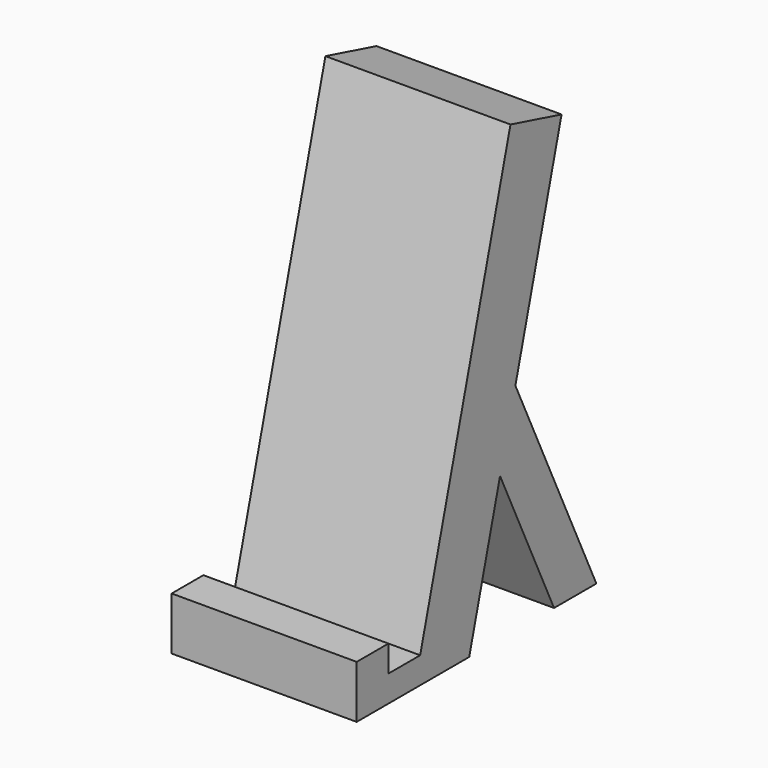
from build123d import *

# Parameters (mm, degrees)
F0_W     = 63.5
F0_H     = 25.4
F1_DEPTH = 19.05
F2_W     = 19.05
F2_H     = 12.7
F3_DEPTH = 63.5
F4_DEPTH = 25.4
F6_DEPTH = 88.9


with BuildPart() as f1:
    # F0 (on Front) → F1 (new body)
    with BuildSketch(Plane.XZ):
        with Locations((-31.75, 12.7)):
            Rectangle(F0_W, F0_H)
    extrude(amount=F1_DEPTH)

    # F2 (on Right) → F3 (join)
    with BuildSketch(Plane.YZ):
        with Locations((9.525, 6.35)):
            Rectangle(F2_W, F2_H)
        Polygon((19.05, 12.7), (19.05, 0), (48.5170639841, 0), (103.9536758859, 206.8922522169), (73.2855309012, 215.1097568989), align=None)
    extrude(amount=-F3_DEPTH)

    # F4 (add): a face of the model
    f4_faces = [f1.faces().sort_by_distance(p)[0] for p in [
        (0, 54.342102556, 96.7816110537),
    ]]
    extrude(f4_faces, amount=F4_DEPTH)

    # F5 (on face) → F6 (join)
    with BuildSketch(Plane.YZ.offset(25.4)):
        Polygon((124.8500692878, 0), (76.235369935, 103.4461261084), (67.012033734, 69.0241667908), (99.4500692878, 0), align=None)
    extrude(amount=-F6_DEPTH)


solid = f1.part
